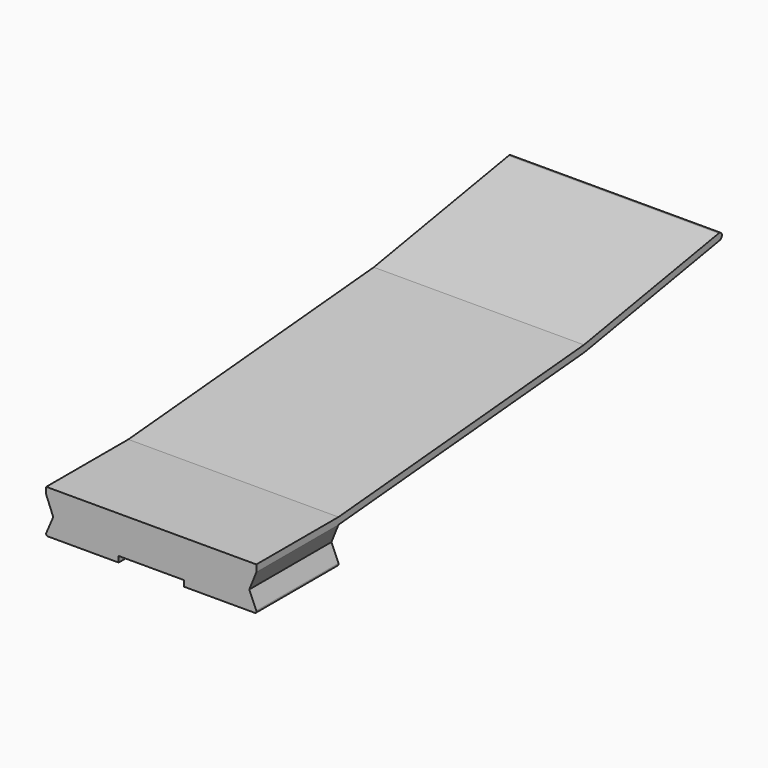
from build123d import *

# Parameters (mm, degrees)
F0_W          = 61.4048474937
F0_H          = 2
F1_DEPTH      = 30
F4_DEPTH      = 31
F4_DEPTH_BACK = 30.4048474937
F5_DEPTH      = 25


with BuildPart() as f1:
    # F0 (on Front) → F1 (new body)
    with BuildSketch(Plane.XZ):
        with BuildLine():
            Line((-37.0734768147, 14.5654241689), (-39.1259005615, 9.7618792294))
            ThreePointArc((-39.1259005615, 9.7618792294), (-39.0833815375, 9.2899496059), (-38.6661121219, 9.0654241689))
            Line((-38.6661121219, 9.0654241689), (-17.9661121219, 9.0654241689))
            Line((-17.9661121219, 9.0654241689), (-17.9661121219, 10.7654241689))
            Line((-17.9661121219, 10.7654241689), (1.1191584926, 10.7654241689))
            Line((1.1191584926, 10.7654241689), (1.1191584926, 9.0654241689))
            Line((1.1191584926, 9.0654241689), (21.8191584926, 9.0654241689))
            ThreePointArc((21.8191584926, 9.0654241689), (22.2364279081, 9.2899496059), (22.2789469322, 9.7618792294))
            Line((22.2789469322, 9.7618792294), (20.2265231853, 14.5654241689))
            Line((20.2265231853, 14.5654241689), (22.2789469322, 19.6776874363))
            Line((22.2789469322, 19.6776874363), (-39.1259005615, 19.6776874363))
            Line((-39.1259005615, 19.6776874363), (-37.0734768147, 14.5654241689))
        make_face()
        with Locations((-8.4234768147, 20.6776874363)):
            Rectangle(F0_W, F0_H)
    extrude(amount=F1_DEPTH)

    # F3 (on offset) → F4 (join, two sides)
    with BuildSketch(Plane.YZ.offset(-8.7210530678)) as f4_sk:
        with BuildLine():
            Line((138.8979104789, 38.204113167), (89.6575228283, 29.5217042836))
            Line((89.6575228283, 29.5217042836), (0, 21.6776874363))
            Line((0, 21.6776874363), (0, 19.6776874363))
            Line((0, 19.6776874363), (90.0055822498, 27.5522234792))
            Line((90.0055822498, 27.5522234792), (139.2452068342, 36.234497661))
            ThreePointArc((139.2452068342, 36.234497661), (140.0563664095, 37.3929535916), (138.8979104789, 38.204113167))
        make_face()
    extrude(amount=F4_DEPTH)
    extrude(f4_sk.sketch, amount=-F4_DEPTH_BACK)

    # F3 (on offset) → F5 (join, symmetric)
    with BuildSketch(Plane.YZ.offset(-8.7210530678)):
        with BuildLine():
            Line((138.8979104789, 38.204113167), (89.6575228283, 29.5217042836))
            Line((89.6575228283, 29.5217042836), (0, 21.6776874363))
            Line((0, 21.6776874363), (0, 19.6776874363))
            Line((0, 19.6776874363), (90.0055822498, 27.5522234792))
            Line((90.0055822498, 27.5522234792), (139.2452068342, 36.234497661))
            ThreePointArc((139.2452068342, 36.234497661), (140.0563664095, 37.3929535916), (138.8979104789, 38.204113167))
        make_face()
        Polygon((90.0055822498, 27.5522234792), (0, 19.6776874363), (0, 15.6776874363), align=None)
    extrude(amount=F5_DEPTH, both=True)


solid = f1.part
